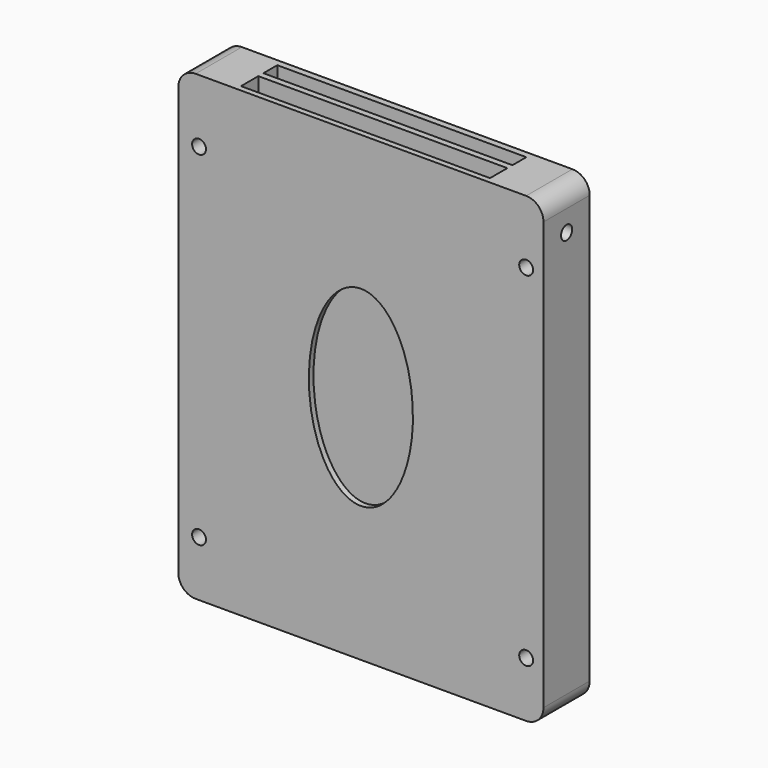
from build123d import *

# Parameters (mm, degrees)
F0_W      = 80.264
F0_H      = 101.6
F1_DEPTH  = 6.35
F2_W      = 54.737
F2_H      = 4.7625
F3_DEPTH  = 88.9
F5_DEPTH  = 5.08
F6_W      = 54.737
F6_H      = 3.81
F7_DEPTH  = 88.9
F8_R      = 3.81
F10_D     = 3.048
F10_DEPTH = 9.525
F10_TIP   = 0.9157115834
F12_D     = 3.048
F12_DEPTH = 9.525
F12_TIP   = 0.9157115834
F14_D     = 3.048
F14_DEPTH = 9.525
F14_TIP   = 0.9157115834
F16_D     = 3.048
F16_DEPTH = 9.525
F16_TIP   = 0.9157115834


with BuildPart() as f1:
    # F0 (on Front) → F1 (new body, symmetric)
    with BuildSketch(Plane.XZ):
        Rectangle(F0_W, F0_H)
    extrude(amount=F1_DEPTH, both=True)

    # F2 (on face) → F3 (cut)
    with BuildSketch(Plane.XY.offset(50.8)):
        with Locations((0, -2.69875)):
            Rectangle(F2_W, F2_H)
    extrude(amount=-F3_DEPTH, mode=Mode.SUBTRACT)

    # F4 (on face) → F5 (cut)
    with BuildSketch(Plane.XZ.offset(6.35)):
        with BuildLine():
            add(Edge.make_bspline(
                [(0, -21.021893248), (19.8113411297, -21.021893248), (9.9056705649, 10.510946624), (0, 42.0437864959), (-9.9056705649, 10.510946624), (-19.8113411297, -21.021893248), (0, -21.021893248)],
                knots=[0, 0, 0, 2.0943951024, 2.0943951024, 4.1887902048, 4.1887902048, 6.2831853072, 6.2831853072, 6.2831853072], degree=2, weights=[1, 0.5, 1, 0.5, 1, 0.5, 1]))
        make_face()
    extrude(amount=-F5_DEPTH, mode=Mode.SUBTRACT)

    # F6 (on face) → F7 (cut)
    with BuildSketch(Plane.XY.offset(50.8)):
        with Locations((0, 2.9844999377)):
            Rectangle(F6_W, F6_H)
    extrude(amount=-F7_DEPTH, mode=Mode.SUBTRACT)

    # F8
    f8_edges = [f1.edges().sort_by_distance(p)[0] for p in [
        (40.132, 0, 50.8),
        (-40.132, 0, 50.8),
        (-40.132, 0, -50.8),
        (40.132, 0, -50.8),
    ]]
    fillet(f8_edges, radius=F8_R)

    # F10
    with Locations(Plane(origin=(-40.132, 0, 0), x_dir=(0, -1, 0), z_dir=(-1, 0, 0))):
        with Locations((0, 42.3520989716)):
            Hole(F10_D / 2, depth=F10_DEPTH)
            with Locations((0, 0, -(F10_DEPTH + F10_TIP / 2))):  # 118° drill point
                Cone(0, F10_D / 2, F10_TIP, mode=Mode.SUBTRACT)

    # F12
    with Locations(Plane.YZ.offset(40.132)):
        with Locations((0, 42.3520989716)):
            Hole(F12_D / 2, depth=F12_DEPTH)
            with Locations((0, 0, -(F12_DEPTH + F12_TIP / 2))):  # 118° drill point
                Cone(0, F12_D / 2, F12_TIP, mode=Mode.SUBTRACT)

    # F14
    with Locations(Plane(origin=(0, 6.35, 0), x_dir=(-1, 0, 0), z_dir=(0, 1, 0))):
        with Locations((-36.322, 46.99), (36.322, 46.99), (-36.322, -46.99), (36.322, -46.99)):
            Hole(F14_D / 2, depth=F14_DEPTH)
            with Locations((0, 0, -(F14_DEPTH + F14_TIP / 2))):  # 118° drill point
                Cone(0, F14_D / 2, F14_TIP, mode=Mode.SUBTRACT)

    # F16
    with Locations(Plane.XZ.offset(6.35)):
        with Locations((-35.5702526867, 36.9295366108), (-35.5702526867, -38.6124029756), (36.322, -38.6124029756), (36.322, 36.9295366108)):
            Hole(F16_D / 2, depth=F16_DEPTH)
            with Locations((0, 0, -(F16_DEPTH + F16_TIP / 2))):  # 118° drill point
                Cone(0, F16_D / 2, F16_TIP, mode=Mode.SUBTRACT)


solid = f1.part
